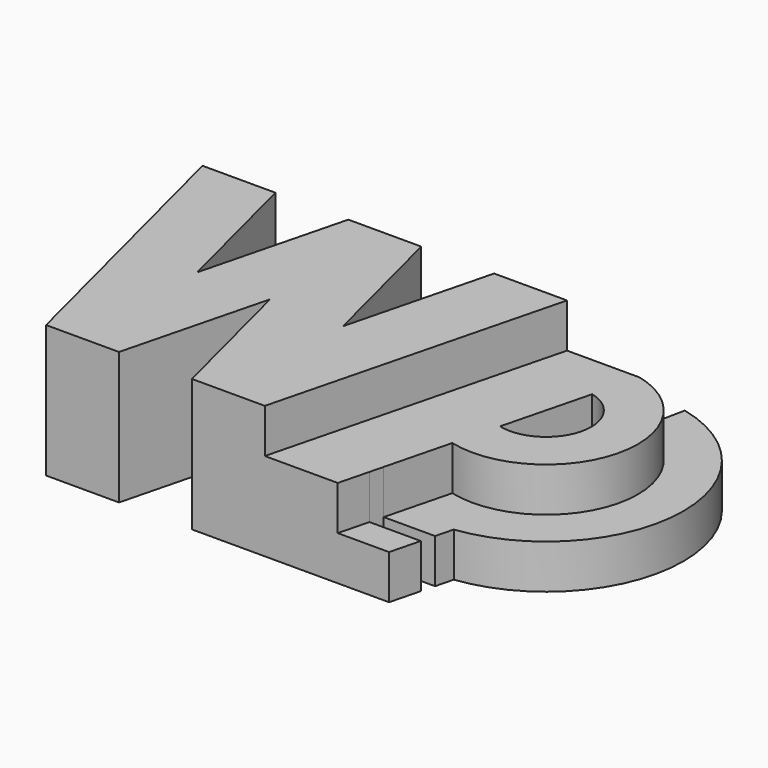
from build123d import *

# Parameters (mm, degrees)
F1_DEPTH = 15
F2_DEPTH = 10
F3_DEPTH = 5


with BuildPart() as f1:
    # F0 (on Top) → F1 (new body)
    with BuildSketch(Plane.XY):
        Polygon((-37.712831, 21.99769), (-45.967648, 21.99769), (-37.712831, -10.45064), (-29.458014, -10.45064), (-25.330606, 5.773525), (-21.203197, -10.45064), (-12.94838, -10.45064), (-4.693563, 21.99769), (-12.94838, 21.99769), (-17.075789, 5.773525), (-21.203197, 21.99769), (-29.458014, 21.99769), (-33.585422, 5.773525), align=None)
    extrude(amount=F1_DEPTH)

    # F0 (on Top) → F2 (join)
    with BuildSketch(Plane.XY):
        with BuildLine():
            Line((-4.693563, 21.99769), (-12.94838, -10.45064))
            Line((-12.94838, -10.45064), (-4.693563, -10.45064))
            Line((-4.693563, -10.45064), (-3.826923, -7.044018))
            Line((-3.826923, -7.044018), (-3.437773, -5.514332))
            Line((-3.437773, -5.514332), (-1.565072, 1.846947))
            Line((-1.565072, 1.846947), (-1.564775, 1.848116))
            ThreePointArc((-1.564775, 1.848116), (11.072878, 9.361753), (3.556356, 21.99769))
            Line((3.556356, 21.99769), (-4.693563, 21.99769))
        make_face()
        with BuildLine():
            ThreePointArc((2.257058, 16.871111), (5.946883, 10.663352), (-0.260876, 6.973526))
            Line((-0.260876, 6.973526), (2.257058, 16.871111))
        make_face(mode=Mode.SUBTRACT)
    extrude(amount=F2_DEPTH)

    # F0 (on Top) → F3 (join)
    with BuildSketch(Plane.XY):
        with BuildLine():
            Line((3.561253, 21.99769), (3.556356, 21.99769))
            ThreePointArc((3.556356, 21.99769), (11.072878, 9.361753), (-1.564775, 1.848116))
            Line((-1.564775, 1.848116), (-1.565072, 1.846947))
            Line((-1.565072, 1.846947), (-3.437773, -5.514332))
            Line((-3.437773, -5.514332), (2.371906, -5.514332))
            Line((2.371906, -5.514332), (2.883339, -3.503974))
            ThreePointArc((2.883339, -3.503974), (16.514622, 11.049437), (4.60158, 27.039842))
            Line((4.60158, 27.039842), (3.561253, 21.99769))
        make_face()
        Polygon((-3.826923, -7.044018), (-4.693563, -10.45064), (1.116115, -10.45064), (1.982756, -7.044018), align=None)
    extrude(amount=F3_DEPTH)


solid = f1.part
